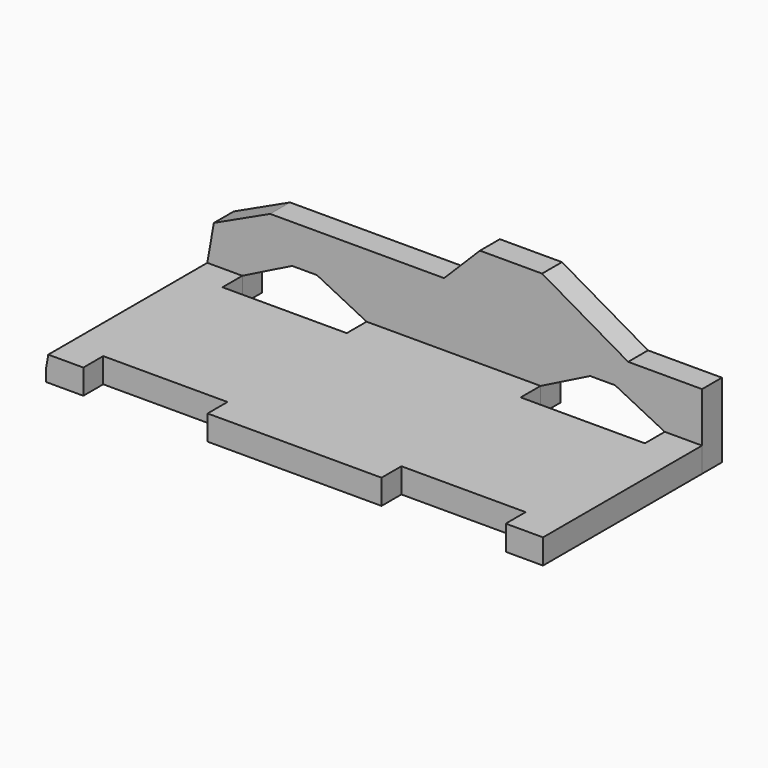
from build123d import *

# Parameters (mm, degrees)
F2_DEPTH = 10
F3_DEPTH = 10
F4_SIZE2 = 0.881635
F4_SIZE  = 5


with BuildPart() as f2:
    # F1 (on Top) → F2 (new body)
    with BuildSketch(Plane.XY):
        Polygon((15, 0), (0, 0), (0, -80), (15, -80), (15, -70), (65, -70), (65, -80), (135, -80), (135, -70), (185, -70), (185, -80), (200, -80), (200, 0), (185, 0), (185, -10), (135, -10), (135, 0), (65, 0), (65, -10), (15, -10), align=None)
    extrude(amount=F2_DEPTH)

    # F4
    f4_edges = [f2.edges().sort_by_distance(p)[0] for p in [
        (0, -40, 10),
    ]]
    chamfer(f4_edges, length=F4_SIZE, length2=F4_SIZE2)


with BuildPart() as f3:
    # F0 (on Front) → F3 (new body)
    with BuildSketch(Plane.XZ):
        Polygon((0, 5), (0, 0), (15, 0), (15, 10), (35, 20), (45, 20), (65, 10), (65, 0), (135, 0), (135, 10), (155, 20), (165, 20), (185, 10), (185, 0), (200, 0), (200, 30), (170.259794, 30), (135.618778, 50), (110.618778, 50), (96.184234, 35.565457), (26.184234, 35.565457), (3.52654, 25), align=None)
    extrude(amount=-F3_DEPTH)


solid = Compound([f2.part, f3.part])
